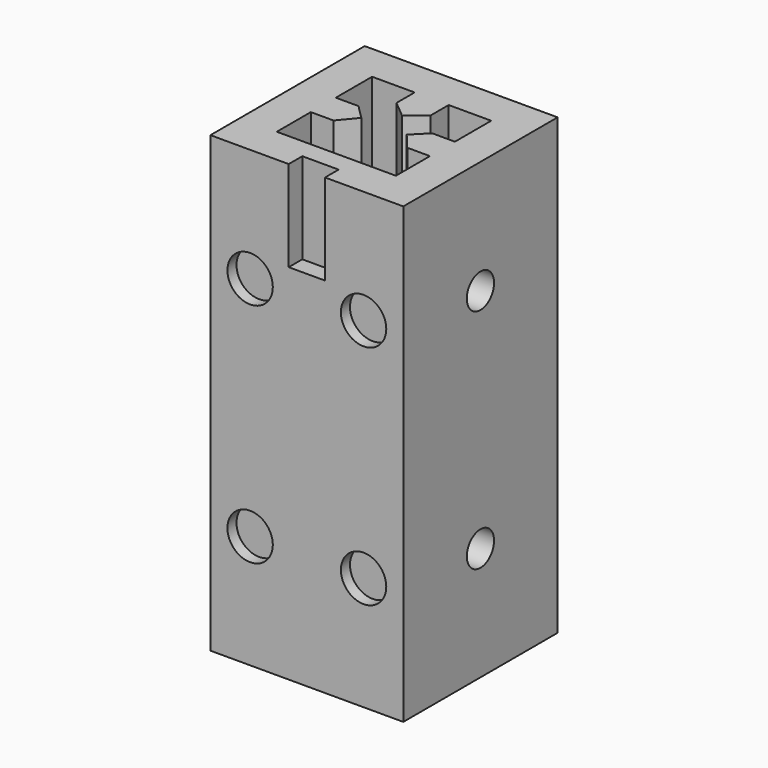
from build123d import *

# Parameters (mm, degrees)
SKETCH_W        = 34
SKETCH_H        = 34
PAD_DEPTH       = 80
POCKET_DEPTH    = 80
SKETCH002_R     = 3
POCKET001_DEPTH = 4
SKETCH003_R     = 3
POCKET002_DEPTH = 4
SKETCH004_R     = 4
POCKET003_DEPTH = 2
SKETCH005_R     = 4
POCKET004_DEPTH = 2
SKETCH006_W     = 6.4
SKETCH006_H     = 3
SKETCH006_W_2   = 8
SKETCH006_H_2   = 8
POCKET005_DEPTH = 16


with BuildPart() as part:
    # Sketch → Pad (new body)
    with BuildSketch(Plane.XY):
        with Locations((17, 17)):
            Rectangle(SKETCH_W, SKETCH_H)
    extrude(amount=PAD_DEPTH)

    # Sketch001 (on Face6 of Pad) → Pocket (cut)
    with BuildSketch(Plane.XY.offset(80)):
        Polygon((6.5, 27.5), (14, 27.5), (14, 23.5), (17, 21), (20, 23.5), (20, 27.5), (27.5, 27.5), (27.5, 19.5), (23.5, 19.5), (21, 17), (23.5, 14), (27.5, 14), (27.5, 6.5), (20, 6.5), (20, 10.5), (17, 13), (14, 10.5), (14, 6.5), (6.5, 6.5), (6.5, 14), (10.5, 14), (13, 17), (10.5, 19.5), (6.5, 19.5), align=None)
    extrude(amount=-POCKET_DEPTH, mode=Mode.SUBTRACT)

    # Sketch002 (on Face2 of Pocket) → Pocket001 (cut)
    with BuildSketch(Plane(origin=(0, 0, 0), x_dir=(0, -1, 0), z_dir=(-1, 0, 0))):
        with Locations((-17, 60)):
            Circle(SKETCH002_R)
        with Locations((-17, 20)):
            Circle(SKETCH002_R)
    extrude(amount=-POCKET001_DEPTH, mode=Mode.SUBTRACT)

    # Sketch003 (on Face3 of Pocket001) → Pocket002 (cut)
    with BuildSketch(Plane.YZ.offset(34)):
        with Locations((17, 60)):
            Circle(SKETCH003_R)
        with Locations((17, 20)):
            Circle(SKETCH003_R)
    extrude(amount=-POCKET002_DEPTH, mode=Mode.SUBTRACT)

    # Sketch004 (on Face1 of Pocket002) → Pocket003 (cut)
    with BuildSketch(Plane(origin=(0, 34, 0), x_dir=(-1, 0, 0), z_dir=(0, 1, 0))):
        with Locations((-27, 60)):
            Circle(SKETCH004_R)
        with Locations((-7, 60)):
            Circle(SKETCH004_R)
        with Locations((-27, 20)):
            Circle(SKETCH004_R)
        with Locations((-7, 20)):
            Circle(SKETCH004_R)
    extrude(amount=-POCKET003_DEPTH, mode=Mode.SUBTRACT)

    # Sketch005 (on Face10 of Pocket003) → Pocket004 (cut)
    with BuildSketch(Plane.XZ):
        with Locations((7, 60)):
            Circle(SKETCH005_R)
        with Locations((27, 60)):
            Circle(SKETCH005_R)
        with Locations((7, 20)):
            Circle(SKETCH005_R)
        with Locations((27, 20)):
            Circle(SKETCH005_R)
    extrude(amount=-POCKET004_DEPTH, mode=Mode.SUBTRACT)

    # Sketch006 (on Face4 of Pocket004) → Pocket005 (cut)
    with BuildSketch(Plane.XY.offset(80)):
        with Locations((17, 1.5)):
            Rectangle(SKETCH006_W, SKETCH006_H)
        with Locations((17, 10.5)):
            Rectangle(SKETCH006_W_2, SKETCH006_H_2)
    extrude(amount=-POCKET005_DEPTH, mode=Mode.SUBTRACT)


solid = part.part
